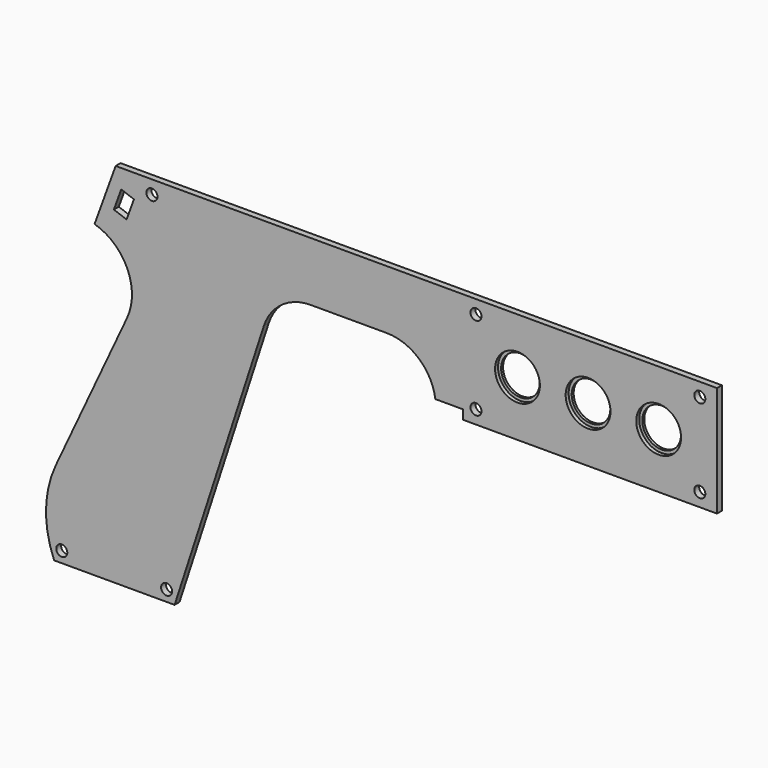
from build123d import *

# Parameters (mm, degrees)
SKETCH076_R      = 7.3
EXTRUDE077_DEPTH = 1.2
SKETCH074_R      = 1.8
SKETCH074_R_2    = 6.3
EXTRUDE076_DEPTH = 2


with BuildPart() as obj1:
    # Sketch076 → Extrude077 (new body)
    with BuildSketch(Plane.XZ):
        with Locations((-65, 21.2)):
            Circle(SKETCH076_R)
        with Locations((-42, 21.2)):
            Circle(SKETCH076_R)
        with Locations((-19, 21.2)):
            Circle(SKETCH076_R)
    extrude(amount=-EXTRUDE077_DEPTH)


with BuildPart() as cut044:
    # Sketch074 → Extrude076 (new body)
    with BuildSketch(Plane.XZ):
        with BuildLine():
            Line((-82.8, 3.2), (0, 3.2))
            Line((0, 3.2), (0, 39.2))
            Line((-195.886839, 39.2), (0, 39.2))
            Line((-202.764796, 20.302968), (-195.886839, 39.2))
            ThreePointArc((-192.175575, -3.18451), (-192.085048, 10.987093), (-202.764796, 20.302968))
            Line((-192.175575, -3.18451), (-215.419579, -53.031439))
            ThreePointArc((-215.419579, -53.031439), (-218.578907, -66.677212), (-215.93199, -80.431568))
            Line((-215.93199, -80.431568), (-176.68528, -80.431568))
            Line((-147.645309, 8.944272), (-176.68528, -80.431568))
            ThreePointArc((-132.428405, 20), (-141.832969, 16.944272), (-147.645309, 8.944272))
            Line((-132.428405, 20), (-107.6, 20))
            ThreePointArc((-91.751972, 6.2), (-97.09286, 16.066483), (-107.6, 20))
            Line((-82.8, 6.2), (-91.751972, 6.2))
            Line((-82.8, 3.2), (-82.8, 6.2))
        make_face()
        with Locations((-213.443268, -76.831568)):
            Circle(SKETCH074_R, mode=Mode.SUBTRACT)
        with Locations((-179.304663, -76.831568)):
            Circle(SKETCH074_R, mode=Mode.SUBTRACT)
        with Locations((-184.079668, 34.8)):
            Circle(SKETCH074_R, mode=Mode.SUBTRACT)
        with Locations((-78.51, 34.8)):
            Circle(SKETCH074_R, mode=Mode.SUBTRACT)
        with Locations((-78.51, 7.6)):
            Circle(SKETCH074_R, mode=Mode.SUBTRACT)
        with Locations((-5.6, 34.8)):
            Circle(SKETCH074_R, mode=Mode.SUBTRACT)
        with Locations((-5.6, 7.6)):
            Circle(SKETCH074_R, mode=Mode.SUBTRACT)
        with Locations((-19, 21.2)):
            Circle(SKETCH074_R_2, mode=Mode.SUBTRACT)
        with Locations((-42, 21.2)):
            Circle(SKETCH074_R_2, mode=Mode.SUBTRACT)
        with Locations((-65, 21.2)):
            Circle(SKETCH074_R_2, mode=Mode.SUBTRACT)
        Polygon((-189.938695, 31.567195), (-192.332836, 24.989347), (-196.467483, 26.494236), (-194.073342, 33.072084), (-193.885404, 33.00368), (-190.126633, 31.635599), align=None, mode=Mode.SUBTRACT)
    extrude(amount=-EXTRUDE076_DEPTH)

    # Cut044: cut obj1
    add(obj1.part, mode=Mode.SUBTRACT)


solid = cut044.part
